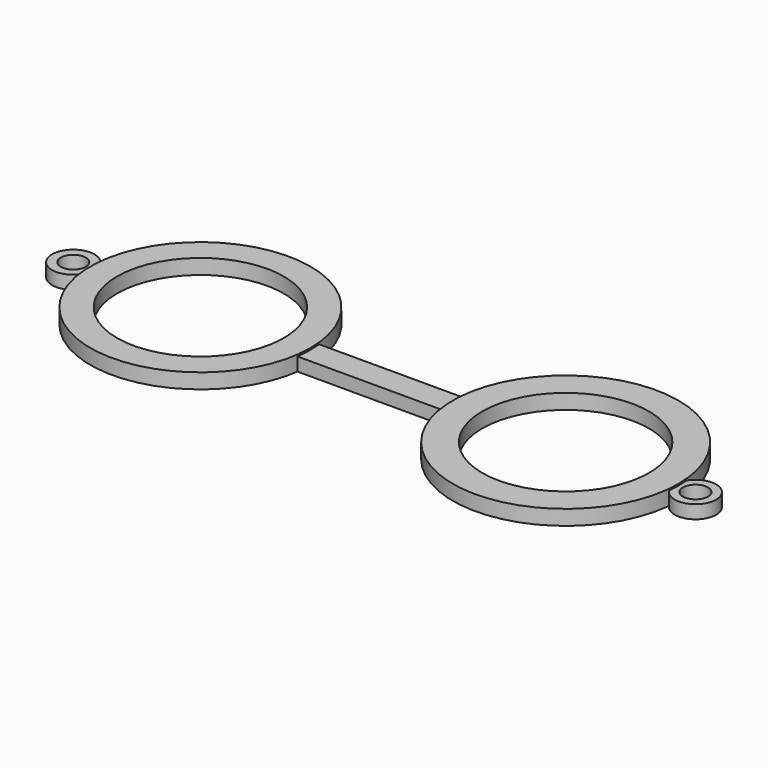
from build123d import *

# Parameters (mm, degrees)
F0_R     = 16.779966
F0_R_2   = 17.187208
F1_DEPTH = 2.286
F2_D     = 25.4
F3_R     = 3.236856
F3_R_2   = 3.148717
F4_DEPTH = 2.032
F6_D     = 3.81
F7_W     = 25.256614
F7_H     = 4.055806
F8_DEPTH = 2.032


with BuildPart() as f1:
    # F0 (on Top) → F1 (new body)
    with BuildSketch(Plane.XY):
        with Locations((-43.968629, 0)):
            Circle(F0_R)
        with Locations((11.656133, 0)):
            Circle(F0_R_2)
    extrude(amount=F1_DEPTH)

    # F2 (through all)
    with Locations(Plane(origin=(0, 0, 0), x_dir=(1, 0, 0), z_dir=(0, 0, -1))):
        with Locations((-43.968629, 0), (11.656133, 0)):
            Hole(F2_D / 2)


with BuildPart() as f4:
    # F3 (on Top) → F4 (new body)
    with BuildSketch(Plane.XY):
        with Locations((-63.325889, 0)):
            Circle(F3_R)
        with Locations((31.432498, 0)):
            Circle(F3_R_2)
    extrude(amount=F4_DEPTH)

    # F6 (through all)
    with Locations(Plane(origin=(0, 0, 0), x_dir=(1, 0, 0), z_dir=(0, 0, -1))):
        with Locations((-63.325889, 0), (31.432498, 0)):
            Hole(F6_D / 2)


with BuildPart() as f8:
    # F7 (on Top) → F8 (new body)
    with BuildSketch(Plane.XY):
        with Locations((-16.223226, -0.276532)):
            Rectangle(F7_W, F7_H)
    extrude(amount=F8_DEPTH)


solid = Compound([f1.part, f4.part, f8.part])
